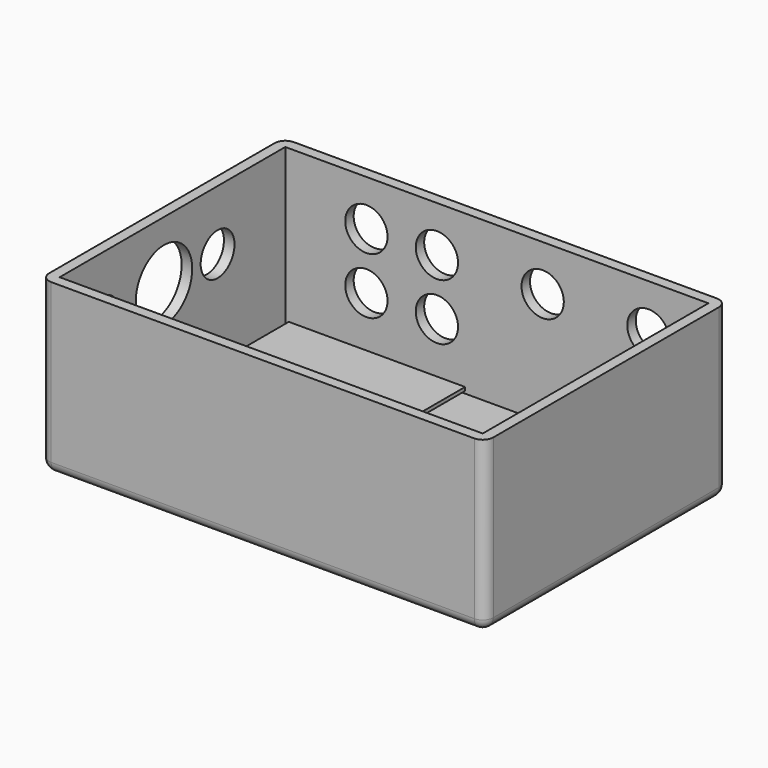
from build123d import *

# Parameters (mm, degrees)
BOX003_W                = 50
BOX003_H                = 70
BOX003_DEPTH            = 1
CYLINDER002_R           = 6
CYLINDER002_DEPTH       = 20
CYLINDER001_R           = 6
CYLINDER001_DEPTH       = 20
CYLINDER003_R           = 6
CYLINDER003_DEPTH       = 20
CYLINDER_R              = 6
CYLINDER_DEPTH          = 20
CYLINDER005_R           = 6
CYLINDER005_DEPTH       = 20
CYLINDER004_R           = 6
CYLINDER004_DEPTH       = 20
FUSION022_ROLL_ANGLE    = 90
CYLINDER007_R           = 6
CYLINDER007_DEPTH       = 20
CYLINDER007_PITCH_ANGLE = 90
CYLINDER008_R           = 10
CYLINDER008_DEPTH       = 20
CYLINDER008_PITCH_ANGLE = 90
CYLINDER006_R           = 6
CYLINDER006_DEPTH       = 30
CYLINDER006_PITCH_ANGLE = 90
CYLINDER013_R           = 1.15
CYLINDER013_DEPTH       = 15
CYLINDER012_R           = 1.15
CYLINDER012_DEPTH       = 15
CYLINDER011_R           = 1.15
CYLINDER011_DEPTH       = 15
CYLINDER010_R           = 1.15
CYLINDER010_DEPTH       = 15
CYLINDER014_R           = 1.15
CYLINDER014_DEPTH       = 15
CYLINDER016_R           = 1.15
CYLINDER016_DEPTH       = 15
CYLINDER017_R           = 1.15
CYLINDER017_DEPTH       = 15
CYLINDER015_R           = 1.15
CYLINDER015_DEPTH       = 15
BOX001_W                = 25
BOX001_H                = 50
BOX001_DEPTH            = 1
BOX002_W                = 25
BOX002_H                = 50
BOX002_DEPTH            = 1
BOX_W                   = 120
BOX_H                   = 80
BOX_DEPTH               = 45
THICKNESS_T             = 3


with BuildPart() as cube001:
    # Box003 → Box003 (new body)
    with BuildSketch(Plane(origin=(5, 5, 4), x_dir=(1, 0, 0), z_dir=(0, 0, 1))):
        with Locations((25, 35)):
            Rectangle(BOX003_W, BOX003_H)
    extrude(amount=BOX003_DEPTH)


with BuildPart() as cylindre002:
    # Cylinder002 → Cylinder002 (new body)
    with BuildSketch(Plane(origin=(16, -16, 0), x_dir=(1, 0, 0), z_dir=(0, 0, 1))):
        Circle(CYLINDER002_R)
    extrude(amount=CYLINDER002_DEPTH)


with BuildPart() as fusion:
    # Cylinder001 → Cylinder001 (new body)
    with BuildSketch(Plane(origin=(16, 0, 0), x_dir=(1, 0, 0), z_dir=(0, 0, 1))):
        Circle(CYLINDER001_R)
    extrude(amount=CYLINDER001_DEPTH)

    # Fusion: union Cylindre002
    add(cylindre002.part)


with BuildPart() as fusion_1:
    # Fusion placement: moved
    add(fusion.part.moved(Location((27, 0, 0))))


with BuildPart() as cylindre003:
    # Cylinder003 → Cylinder003 (new body)
    with BuildSketch(Plane(origin=(0, -16, 0), x_dir=(1, 0, 0), z_dir=(0, 0, 1))):
        Circle(CYLINDER003_R)
    extrude(amount=CYLINDER003_DEPTH)


with BuildPart() as fusion021:
    # Cylinder → Cylinder (new body)
    with BuildSketch(Plane.XY):
        Circle(CYLINDER_R)
    extrude(amount=CYLINDER_DEPTH)

    # Fusion001: union Cylindre003
    add(cylindre003.part)


with BuildPart() as fusion021_1:
    # Fusion001 placement: moved
    add(fusion021.part.moved(Location((23, 0, 0))))

    # Fusion021: union Fusion
    add(fusion_1.part)


with BuildPart() as fusion021_2:
    # Fusion021 placement: moved
    add(fusion021_1.part.moved(Location((0, 7, 0))))


with BuildPart() as cylindre005:
    # Cylinder005 → Cylinder005 (new body)
    with BuildSketch(Plane(origin=(103, -8, 0), x_dir=(1, 0, 0), z_dir=(0, 0, 1))):
        Circle(CYLINDER005_R)
    extrude(amount=CYLINDER005_DEPTH)


with BuildPart() as fusion022:
    # Cylinder004 → Cylinder004 (new body)
    with BuildSketch(Plane(origin=(73, -8, 0), x_dir=(1, 0, 0), z_dir=(0, 0, 1))):
        Circle(CYLINDER004_R)
    extrude(amount=CYLINDER004_DEPTH)

    # Fusion002: union Cylindre005
    add(cylindre005.part)


with BuildPart() as fusion022_1:
    # Fusion002 placement: moved
    add(fusion022.part.moved(Location((0, 15, 0))))

    # Fusion022: union Fusion021
    add(fusion021_2.part)


with BuildPart() as fusion022_2:
    # Fusion022 roll: moved
    add(fusion022_1.part.rotate(Axis((0, 0, 0), (1, 0, 0)), FUSION022_ROLL_ANGLE))


with BuildPart() as fusion022_3:
    # Fusion022 placement: moved
    add(fusion022_2.part.moved(Location((0, 91.5, 25))))


with BuildPart() as cylindre007:
    # Cylinder007 → Cylinder007 (new body)
    with BuildSketch(Plane.XY):
        Circle(CYLINDER007_R)
    extrude(amount=CYLINDER007_DEPTH)


with BuildPart() as cylindre007_1:
    # Cylinder007 pitch: moved
    add(cylindre007.part.rotate(Axis((0, 0, 0), (0, 1, 0)), CYLINDER007_PITCH_ANGLE))


with BuildPart() as cylindre007_2:
    # Cylinder007 placement: moved
    add(cylindre007_1.part.moved(Location((-4, 56, 20))))


with BuildPart() as cylindre008:
    # Cylinder008 → Cylinder008 (new body)
    with BuildSketch(Plane.XY):
        Circle(CYLINDER008_R)
    extrude(amount=CYLINDER008_DEPTH)


with BuildPart() as cylindre008_1:
    # Cylinder008 pitch: moved
    add(cylindre008.part.rotate(Axis((0, 0, 0), (0, 1, 0)), CYLINDER008_PITCH_ANGLE))


with BuildPart() as cylindre008_2:
    # Cylinder008 placement: moved
    add(cylindre008_1.part.moved(Location((-4, 37, 20))))


with BuildPart() as fusion023:
    # Cylinder006 → Cylinder006 (new body)
    with BuildSketch(Plane.XY):
        Circle(CYLINDER006_R)
    extrude(amount=CYLINDER006_DEPTH)


with BuildPart() as fusion023_1:
    # Cylinder006 pitch: moved
    add(fusion023.part.rotate(Axis((0, 0, 0), (0, 1, 0)), CYLINDER006_PITCH_ANGLE))


with BuildPart() as fusion023_2:
    # Cylinder006 placement: moved
    add(fusion023_1.part.moved(Location((-4, 15, 20))))

    # Fusion005: union Cylindre007, Cylindre008
    add(cylindre007_2.part)
    add(cylindre008_2.part)


with BuildPart() as fusion023_3:
    # Fusion005 placement: moved
    add(fusion023_2.part.moved(Location((0, 0, 8))))

    # Fusion023: union Fusion022
    add(fusion022_3.part)


with BuildPart() as obj1:
    # Cone003 → Cone003 (revolve)
    with BuildSketch(Plane.XZ):
        Polygon((0, 0), (2, 0), (1.15, 1.3), (0, 1.3), align=None)
    revolve(axis=Axis((0, 0, 0), (0, 0, 1)))


with BuildPart() as vis003:
    # Cylinder013 → Cylinder013 (new body)
    with BuildSketch(Plane.XY.offset(1)):
        Circle(CYLINDER013_R)
    extrude(amount=CYLINDER013_DEPTH)

    # Fusion011: union obj1
    add(obj1.part)


with BuildPart() as vis003_1:
    # Fusion011 placement: moved
    add(vis003.part.moved(Location((22, 0, 0))))


with BuildPart() as obj2:
    # Cone002 → Cone002 (revolve)
    with BuildSketch(Plane.XZ):
        Polygon((0, 0), (2, 0), (1.15, 1.3), (0, 1.3), align=None)
    revolve(axis=Axis((0, 0, 0), (0, 0, 1)))


with BuildPart() as fusion009:
    # Cylinder012 → Cylinder012 (new body)
    with BuildSketch(Plane.XY.offset(1)):
        Circle(CYLINDER012_R)
    extrude(amount=CYLINDER012_DEPTH)

    # Fusion010: union obj2
    add(obj2.part)

    # Fusion009: union Vis003
    add(vis003_1.part)


with BuildPart() as fusion009_1:
    # Fusion009 placement: moved
    add(fusion009.part.moved(Location((0, -47, 0))))


with BuildPart() as obj3:
    # Cone001 → Cone001 (revolve)
    with BuildSketch(Plane.XZ):
        Polygon((0, 0), (2, 0), (1.15, 1.3), (0, 1.3), align=None)
    revolve(axis=Axis((0, 0, 0), (0, 0, 1)))


with BuildPart() as vis001:
    # Cylinder011 → Cylinder011 (new body)
    with BuildSketch(Plane.XY.offset(1)):
        Circle(CYLINDER011_R)
    extrude(amount=CYLINDER011_DEPTH)

    # Fusion007: union obj3
    add(obj3.part)


with BuildPart() as vis001_1:
    # Fusion007 placement: moved
    add(vis001.part.moved(Location((22, 0, 0))))


with BuildPart() as obj4:
    # Cone → Cone (revolve)
    with BuildSketch(Plane.XZ):
        Polygon((0, 0), (2, 0), (1.15, 1.3), (0, 1.3), align=None)
    revolve(axis=Axis((0, 0, 0), (0, 0, 1)))


with BuildPart() as obj5:
    # Cylinder010 → Cylinder010 (new body)
    with BuildSketch(Plane.XY.offset(1)):
        Circle(CYLINDER010_R)
    extrude(amount=CYLINDER010_DEPTH)

    # Fusion006: union obj4
    add(obj4.part)

    # Fusion008: union Vis001
    add(vis001_1.part)

    # Fusion012: union Fusion009
    add(fusion009_1.part)


with BuildPart() as obj5_1:
    # Fusion012 placement: moved
    add(obj5.part.moved(Location((61.5, 53.5, -3))))


with BuildPart() as obj6:
    # Cone004 → Cone004 (revolve)
    with BuildSketch(Plane.XZ):
        Polygon((0, 0), (2, 0), (1.15, 1.3), (0, 1.3), align=None)
    revolve(axis=Axis((0, 0, 0), (0, 0, 1)))


with BuildPart() as vis006:
    # Cylinder014 → Cylinder014 (new body)
    with BuildSketch(Plane.XY.offset(1)):
        Circle(CYLINDER014_R)
    extrude(amount=CYLINDER014_DEPTH)

    # Fusion017: union obj6
    add(obj6.part)


with BuildPart() as vis006_1:
    # Fusion017 placement: moved
    add(vis006.part.moved(Location((22, 0, 0))))


with BuildPart() as obj7:
    # Cone006 → Cone006 (revolve)
    with BuildSketch(Plane.XZ):
        Polygon((0, 0), (2, 0), (1.15, 1.3), (0, 1.3), align=None)
    revolve(axis=Axis((0, 0, 0), (0, 0, 1)))


with BuildPart() as fusion013:
    # Cylinder016 → Cylinder016 (new body)
    with BuildSketch(Plane.XY.offset(1)):
        Circle(CYLINDER016_R)
    extrude(amount=CYLINDER016_DEPTH)

    # Fusion016: union obj7
    add(obj7.part)

    # Fusion013: union Vis006
    add(vis006_1.part)


with BuildPart() as fusion013_1:
    # Fusion013 placement: moved
    add(fusion013.part.moved(Location((0, -47, 0))))


with BuildPart() as obj8:
    # Cone007 → Cone007 (revolve)
    with BuildSketch(Plane.XZ):
        Polygon((0, 0), (2, 0), (1.15, 1.3), (0, 1.3), align=None)
    revolve(axis=Axis((0, 0, 0), (0, 0, 1)))


with BuildPart() as vis007:
    # Cylinder017 → Cylinder017 (new body)
    with BuildSketch(Plane.XY.offset(1)):
        Circle(CYLINDER017_R)
    extrude(amount=CYLINDER017_DEPTH)

    # Fusion018: union obj8
    add(obj8.part)


with BuildPart() as vis007_1:
    # Fusion018 placement: moved
    add(vis007.part.moved(Location((22, 0, 0))))


with BuildPart() as obj9:
    # Cone005 → Cone005 (revolve)
    with BuildSketch(Plane.XZ):
        Polygon((0, 0), (2, 0), (1.15, 1.3), (0, 1.3), align=None)
    revolve(axis=Axis((0, 0, 0), (0, 0, 1)))


with BuildPart() as fusion020:
    # Cylinder015 → Cylinder015 (new body)
    with BuildSketch(Plane.XY.offset(1)):
        Circle(CYLINDER015_R)
    extrude(amount=CYLINDER015_DEPTH)

    # Fusion015: union obj9
    add(obj9.part)

    # Fusion014: union Vis007
    add(vis007_1.part)

    # Fusion019: union Fusion013
    add(fusion013_1.part)


with BuildPart() as fusion020_1:
    # Fusion019 placement: moved
    add(fusion020.part.moved(Location((91.5, 53.5, -3))))

    # Fusion020: union obj5
    add(obj5_1.part)


with BuildPart() as carte:
    # Box001 → Box001 (new body)
    with BuildSketch(Plane(origin=(90, 5, 4), x_dir=(1, 0, 0), z_dir=(0, 0, 1))):
        with Locations((12.5, 25)):
            Rectangle(BOX001_W, BOX001_H)
    extrude(amount=BOX001_DEPTH)


with BuildPart() as carte001:
    # Box002 → Box002 (new body)
    with BuildSketch(Plane(origin=(60, 5, 4), x_dir=(1, 0, 0), z_dir=(0, 0, 1))):
        with Locations((12.5, 25)):
            Rectangle(BOX002_W, BOX002_H)
    extrude(amount=BOX002_DEPTH)


with BuildPart() as cut001:
    # Box → Box (new body)
    with BuildSketch(Plane.XY):
        with Locations((60, 40)):
            Rectangle(BOX_W, BOX_H)
    extrude(amount=BOX_DEPTH)

    # Thickness
    thickness_openings = [cut001.faces().sort_by_distance(p)[0] for p in [
        (60, 40, 45),
    ]]
    offset(amount=THICKNESS_T, openings=thickness_openings)

    # Fusion004: union Carte, Carte001
    add(carte.part)
    add(carte001.part)

    # Cut: cut Fusion020
    add(fusion020_1.part, mode=Mode.SUBTRACT)

    # Cut001: cut Fusion023
    add(fusion023_3.part, mode=Mode.SUBTRACT)


solid = Compound([cube001.part, cut001.part])
